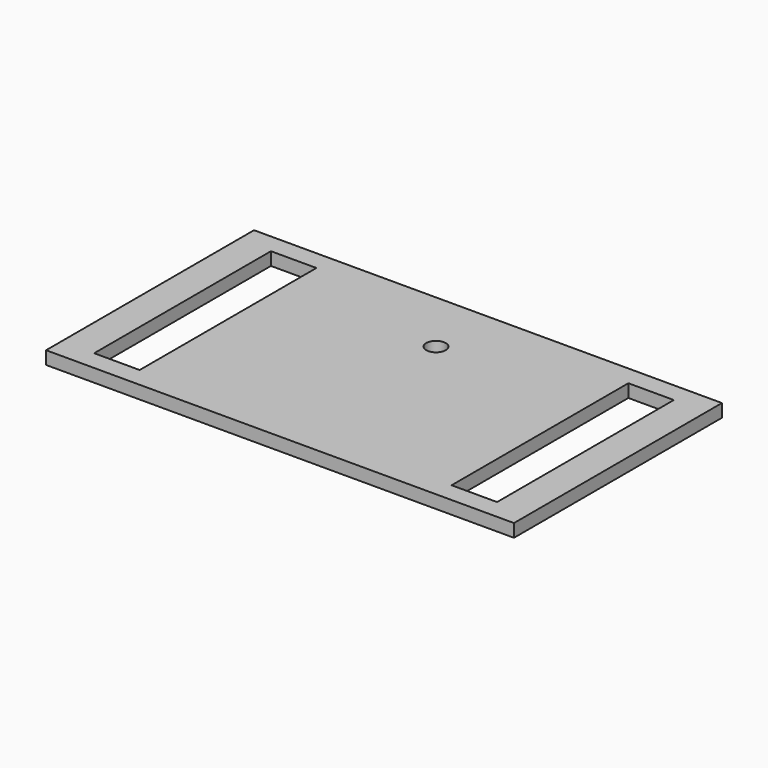
from build123d import *

# Parameters (mm, degrees)
F0_W     = 88.9
F0_H     = 431.8
F0_R     = 19.05
F1_DEPTH = 25.4


with BuildPart() as f1:
    # F0 (on Top) → F1 (new body)
    with BuildSketch(Plane.XY):
        Polygon((469.66731, 136.840239), (-444.73269, 136.840239), (-444.73269, -333.059761), (-444.73269, -371.159761), (469.66731, -371.159761), align=None)
        with Locations((-336.78269, -117.159761)):
            Rectangle(F0_W, F0_H, mode=Mode.SUBTRACT)
        with Locations((12.46731, 9.840239)):
            Circle(F0_R, mode=Mode.SUBTRACT)
        with Locations((361.71731, -117.159761)):
            Rectangle(F0_W, F0_H, mode=Mode.SUBTRACT)
    extrude(amount=F1_DEPTH)


solid = f1.part
